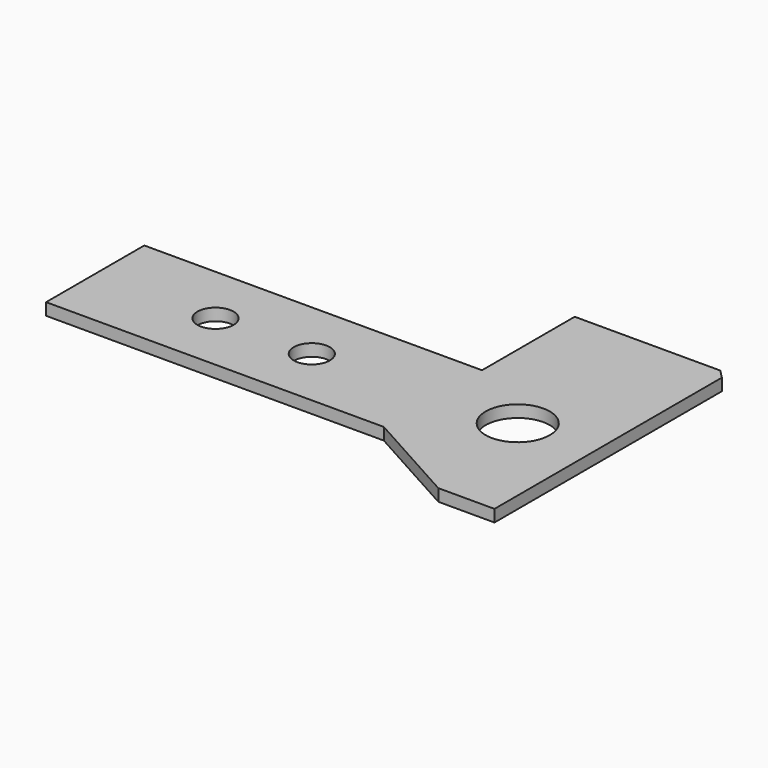
from build123d import *

# Parameters (mm, degrees)
F0_R     = 2.25
F0_R_2   = 4
F1_DEPTH = 1.5


with BuildPart() as f1:
    # F0 (on Top) → F1 (new body)
    with BuildSketch(Plane.XY):
        Polygon((-7.522005, 11.843878), (-49.622005, 11.843878), (-49.622005, -3.456122), (-7.522005, -3.456122), (4.677995, -10.218692), (11.677995, -10.218692), (11.677995, 25.220647), (10.617335, 26.281308), (-7.522005, 26.281308), align=None)
        with Locations((-34.622005, 4.193878)):
            Circle(F0_R, mode=Mode.SUBTRACT)
        with Locations((-22.622005, 4.193878)):
            Circle(F0_R, mode=Mode.SUBTRACT)
        with Locations((2.177995, 5.281308)):
            Circle(F0_R_2, mode=Mode.SUBTRACT)
    extrude(amount=F1_DEPTH)


solid = f1.part
